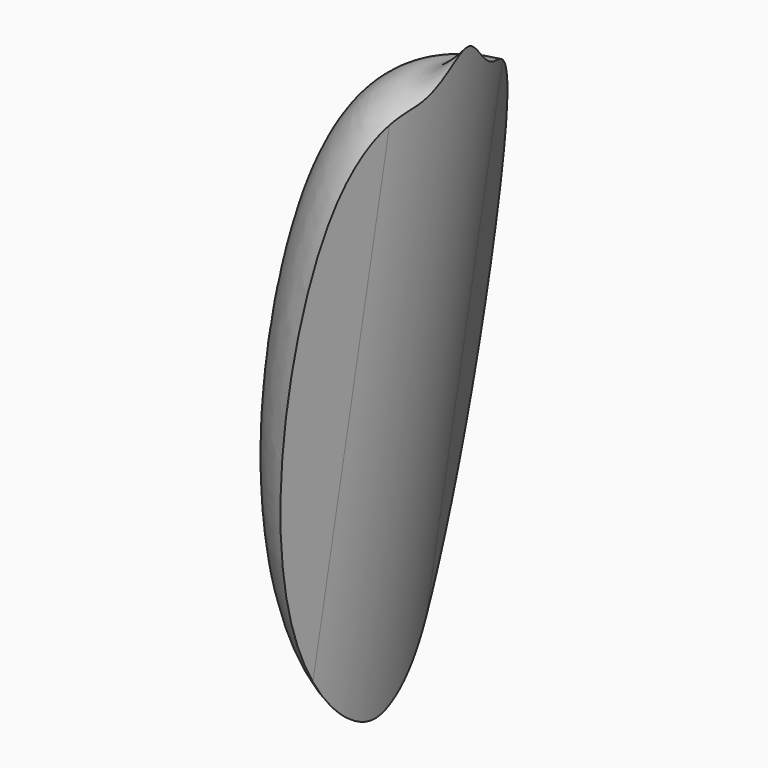
from build123d import *

# Parameters (mm, degrees)
F1_ANGLE_BACK = 67.5
F1_ANGLE      = 135
F2_R          = 13.2561091478


with BuildPart() as f1:
    # F0 (on Front) → F1 (revolve)
    with BuildSketch(Plane.XZ, mode=Mode.PRIVATE) as f1_sk:
        with BuildLine():
            Line((0, 0), (6.9486023858, 46.7269048095))
            add(Edge.make_bspline(
                [(6.9486023858, 46.7269048095), (3.8041579558, 42.4803746122), (1.9041701542, 43.4752432839), (-5.909137075, 37.3478286691), (-9.4333813562, 3.8363964856), (0, 0)],
                knots=[0, 0, 0, 0, 0.2267582466, 0.4771412139, 1, 1, 1, 1], degree=3))
        make_face()
    revolve(f1_sk.sketch.rotate(Axis((3.4743011929, 0, 23.3634524047), (-0.1470892209, 0, -0.9891232285)), -F1_ANGLE_BACK), axis=Axis((3.4743011929, 0, 23.3634524047), (-0.1470892209, 0, -0.9891232285)), revolution_arc=F1_ANGLE)

    # F2
    f2_edges = [f1.edges().sort_by_distance(p)[0] for p in [
        (3.474301, 0, 23.363452),
    ]]
    fillet(f2_edges, radius=F2_R)


solid = f1.part
